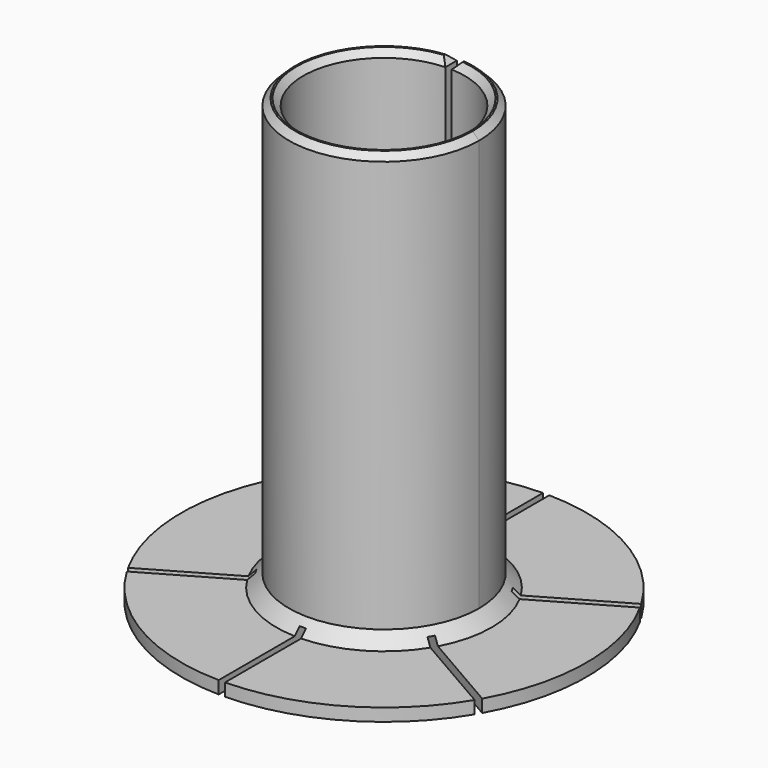
from build123d import *

# Parameters (mm, degrees)
CYLINDER003_R          = 0.5
CYLINDER003_DEPTH      = 32
BOX001_W               = 1
BOX001_H               = 80
BOX001_DEPTH           = 4
BOX001_PLACEMENT_ANGLE = 60
BOX004_W               = 1
BOX004_H               = 80
BOX004_DEPTH           = 4
BOX004_PLACEMENT_ANGLE = -60
BOX003_W               = 1
BOX003_H               = 70
BOX003_DEPTH           = 4
BOX_W                  = 1
BOX_H                  = 24
BOX_DEPTH              = 80
CYLINDER_R             = 12.75
CYLINDER_DEPTH         = 80
CYLINDER002_R          = 32
CYLINDER002_DEPTH      = 2
CYLINDER001_R          = 15
CYLINDER001_DEPTH      = 70
CHAMFER_SIZE           = 1


with BuildPart() as center_pin:
    # Cylinder003 → Cylinder003 (new body)
    with BuildSketch(Plane.XY.offset(-2)):
        Circle(CYLINDER003_R)
    extrude(amount=CYLINDER003_DEPTH)


with BuildPart() as box001:
    # Box001 → Box001 (new body)
    with BuildSketch(Plane.XY):
        with Locations((0.5, 40)):
            Rectangle(BOX001_W, BOX001_H)
    extrude(amount=BOX001_DEPTH)


with BuildPart() as box001_1:
    # Box001 placement: moved
    add(box001.part.moved(Location((40, -23.67, -1))).rotate(Axis((40, -23.67, -1), (0, 0, 1)), BOX001_PLACEMENT_ANGLE))


with BuildPart() as box004:
    # Box004 → Box004 (new body)
    with BuildSketch(Plane.XY):
        with Locations((0.5, 40)):
            Rectangle(BOX004_W, BOX004_H)
    extrude(amount=BOX004_DEPTH)


with BuildPart() as box004_1:
    # Box004 placement: moved
    add(box004.part.moved(Location((-40, -22.52, -1))).rotate(Axis((-40, -22.52, -1), (0, 0, 1)), BOX004_PLACEMENT_ANGLE))


with BuildPart() as box003:
    # Box003 → Box003 (new body)
    with BuildSketch(Plane(origin=(-0.5, -34, -1), x_dir=(1, 0, 0), z_dir=(0, 0, 1))):
        with Locations((0.5, 35)):
            Rectangle(BOX003_W, BOX003_H)
    extrude(amount=BOX003_DEPTH)


with BuildPart() as long_cut:
    # Box → Box (new body)
    with BuildSketch(Plane(origin=(-0.5, 10, -1), x_dir=(1, 0, 0), z_dir=(0, 0, 1))):
        with Locations((0.5, 12)):
            Rectangle(BOX_W, BOX_H)
    extrude(amount=BOX_DEPTH)


with BuildPart() as cylinder:
    # Cylinder → Cylinder (new body)
    with BuildSketch(Plane.XY.offset(-1)):
        Circle(CYLINDER_R)
    extrude(amount=CYLINDER_DEPTH)


with BuildPart() as ring:
    # Cylinder002 → Cylinder002 (new body)
    with BuildSketch(Plane.XY):
        Circle(CYLINDER002_R)
    extrude(amount=CYLINDER002_DEPTH)


with BuildPart() as cone:
    # Cone → Cone (revolve)
    with BuildSketch(Plane.XZ):
        Polygon((0, 0), (19, 0), (14, 5), (0, 5), align=None)
    revolve(axis=Axis((0, 0, 0), (0, 0, 1)))


with BuildPart() as chamfer_body:
    # Cylinder001 → Cylinder001 (new body)
    with BuildSketch(Plane.XY):
        Circle(CYLINDER001_R)
    extrude(amount=CYLINDER001_DEPTH)

    # Fusion: union ring, Cone
    add(ring.part)
    add(cone.part)

    # Cut: cut Cylinder
    add(cylinder.part, mode=Mode.SUBTRACT)

    # Cut001: cut long cut
    add(long_cut.part, mode=Mode.SUBTRACT)

    # Cut002: cut Box003
    add(box003.part, mode=Mode.SUBTRACT)

    # Cut003: cut Box004
    add(box004_1.part, mode=Mode.SUBTRACT)

    # Cut004: cut Box001
    add(box001_1.part, mode=Mode.SUBTRACT)

    # Chamfer
    chamfer_edges = [chamfer_body.edges().sort_by_distance(p)[0] for p in [
        (-10.428327, -10.781929, 70),
        (-0.5, 13.865928, 70),
        (-8.837067, -9.190688, 70),
        (9.190688, 8.837067, 70),
        (0.5, 13.865928, 70),
        (10.781929, 10.428327, 70),
    ]]
    chamfer(chamfer_edges, length=CHAMFER_SIZE)


solid = Compound([center_pin.part, chamfer_body.part])
